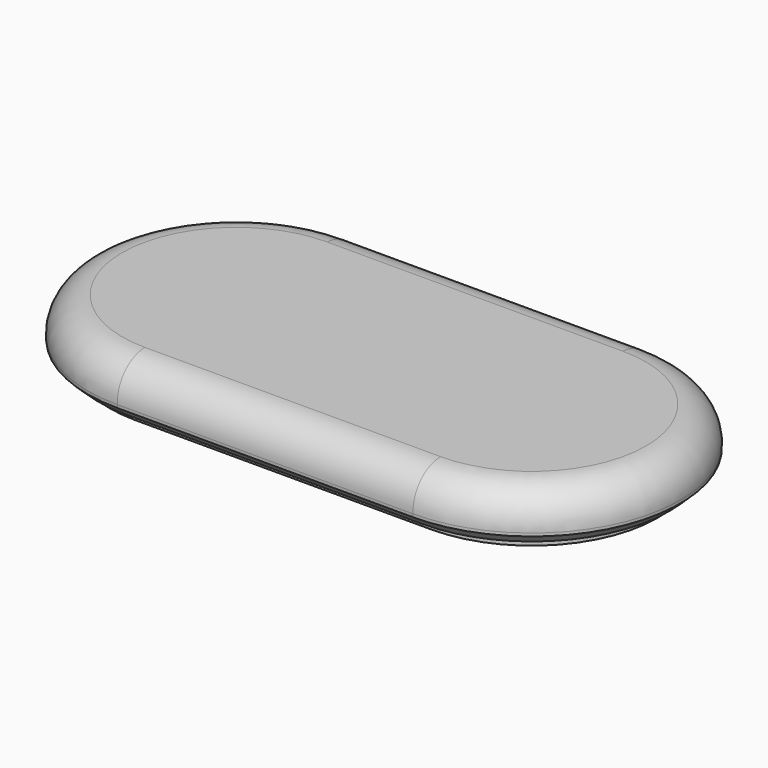
from build123d import *

# Parameters (mm, degrees)
F1_DEPTH = 50
F1_TAPER = -3
F2_R     = 35
F3_SIZE  = 10
F5_DEPTH = 10


with BuildPart() as f1:
    # F0 (on Top) → F1 (new body)
    with BuildSketch(Plane.XY):
        with BuildLine():
            ThreePointArc((150, -150), (300, 0), (150, 150))
            Line((150, 150), (-150, 150))
            ThreePointArc((-150, 150), (-300, 0), (-150, -150))
            Line((-150, -150), (150, -150))
        make_face()
    extrude(amount=F1_DEPTH, taper=F1_TAPER)

    # F2
    f2_edges = [f1.edges().sort_by_distance(p)[0] for p in [
        (-302.620389, 0, 50),
        (0, -152.620389, 50),
        (302.620389, 0, 50),
        (0, 152.620389, 50),
    ]]
    fillet(f2_edges, radius=F2_R)

    # F3
    f3_edges = [f1.edges().sort_by_distance(p)[0] for p in [
        (-300, 0, 0),
        (0, -150, 0),
        (300, 0, 0),
        (0, 150, 0),
    ]]
    chamfer(f3_edges, length=F3_SIZE)

    # F4 (on face) → F5 (join)
    with BuildSketch(Plane(origin=(0, 0, 0), x_dir=(1, 0, 0), z_dir=(0, 0, -1))):
        with BuildLine():
            Line((150, 128), (-150, 128))
            ThreePointArc((-150, 128), (-278, 0), (-150, -128))
            Line((-150, -128), (150, -128))
            ThreePointArc((150, -128), (278, 0), (150, 128))
        make_face()
    extrude(amount=F5_DEPTH)


solid = f1.part
